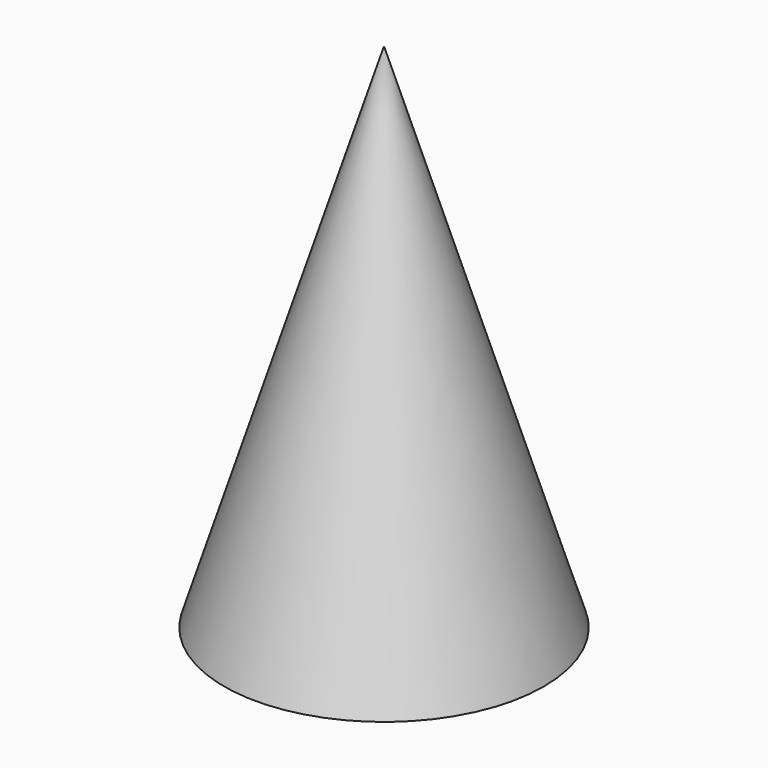
from build123d import *

# Parameters (mm, degrees)
F2_T = -2.54


with BuildPart() as f1:
    # F0 (on Front) → F1 (revolve)
    with BuildSketch(Plane.XZ):
        Polygon((0, 101.6), (0, 0), (31.75, 0), align=None)
    revolve(axis=Axis((0, 0, 50.8), (0, 0, 1)))

    # F2
    f2_openings = [f1.faces().sort_by_distance(p)[0] for p in [
        (0, 0, 0),
    ]]
    offset(amount=F2_T, openings=f2_openings)


solid = f1.part
